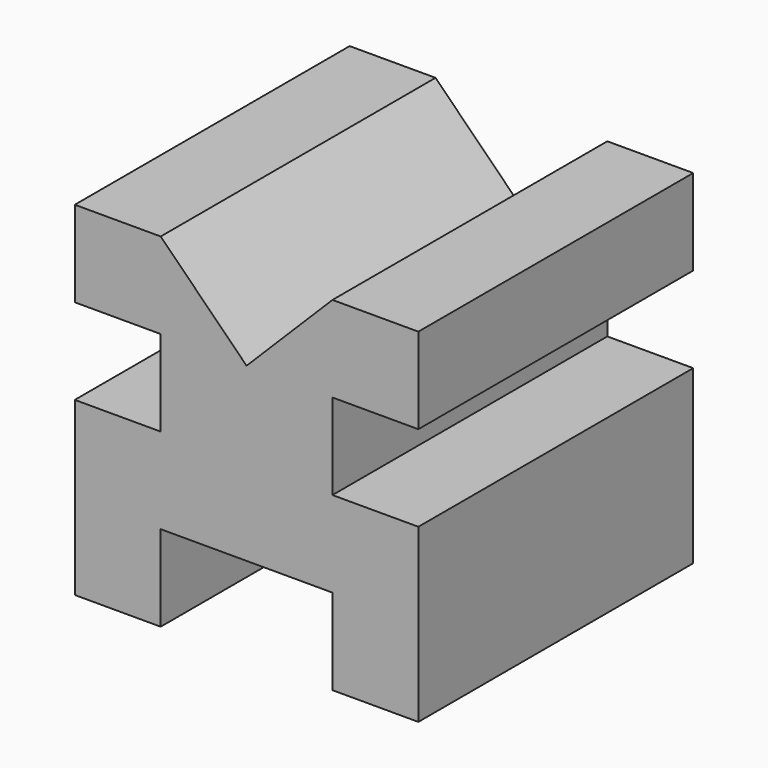
from build123d import *

# Parameters (mm, degrees)
F0_W     = 101.6
F0_H     = 101.6
F1_DEPTH = 101.6
F2_W     = 25.4
F2_H     = 25.4
F3_DEPTH = 101.6
F5_DEPTH = 101.6
F6_W     = 50.8
F6_H     = 25.4
F7_DEPTH = 101.6


with BuildPart() as f1:
    # F0 (on Front) → F1 (new body)
    with BuildSketch(Plane.XZ):
        with Locations((-103.523429, -35.627711)):
            Rectangle(F0_W, F0_H)
    extrude(amount=F1_DEPTH)

    # F2 (on face) → F3 (cut)
    with BuildSketch(Plane.XZ.offset(101.6)):
        with Locations((-65.423429, -22.927711)):
            Rectangle(F2_W, F2_H)
        with Locations((-141.623429, -22.927711)):
            Rectangle(F2_W, F2_H)
    extrude(amount=-F3_DEPTH, mode=Mode.SUBTRACT)

    # F4 (on face) → F5 (cut)
    with BuildSketch(Plane.XZ.offset(101.6)):
        Polygon((-128.923429, 15.172289), (-103.523429, -10.227711), (-78.123429, 15.172289), align=None)
    extrude(amount=-F5_DEPTH, mode=Mode.SUBTRACT)

    # F6 (on face) → F7 (cut)
    with BuildSketch(Plane.XZ.offset(101.6)):
        with Locations((-103.523429, -73.727711)):
            Rectangle(F6_W, F6_H)
    extrude(amount=-F7_DEPTH, mode=Mode.SUBTRACT)


solid = f1.part
